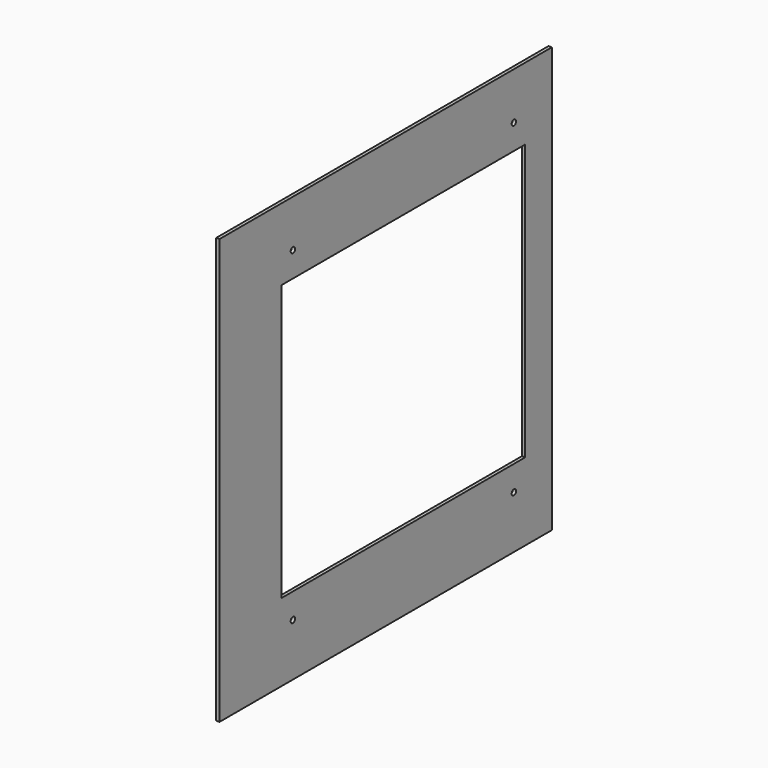
from build123d import *

# Parameters (mm, degrees)
F0_W     = 374.65
F0_H     = 383.506636
F0_R     = 2.5
F0_W_2   = 274.65
F0_H_2   = 248.506636
F1_DEPTH = 3


with BuildPart() as f1:
    # F0 (on Right) → F1 (new body)
    with BuildSketch(Plane.YZ):
        with Locations((-20, -2.5)):
            Rectangle(F0_W, F0_H)
        with Locations((-124.61875, -146.84375)):
            Circle(F0_R, mode=Mode.SUBTRACT)
        with Locations((124.61875, -146.84375)):
            Circle(F0_R, mode=Mode.SUBTRACT)
        with Locations((-124.61875, 146.84375)):
            Circle(F0_R, mode=Mode.SUBTRACT)
        Rectangle(F0_W_2, F0_H_2, mode=Mode.SUBTRACT)
        with Locations((124.61875, 146.84375)):
            Circle(F0_R, mode=Mode.SUBTRACT)
    extrude(amount=F1_DEPTH)


solid = f1.part
